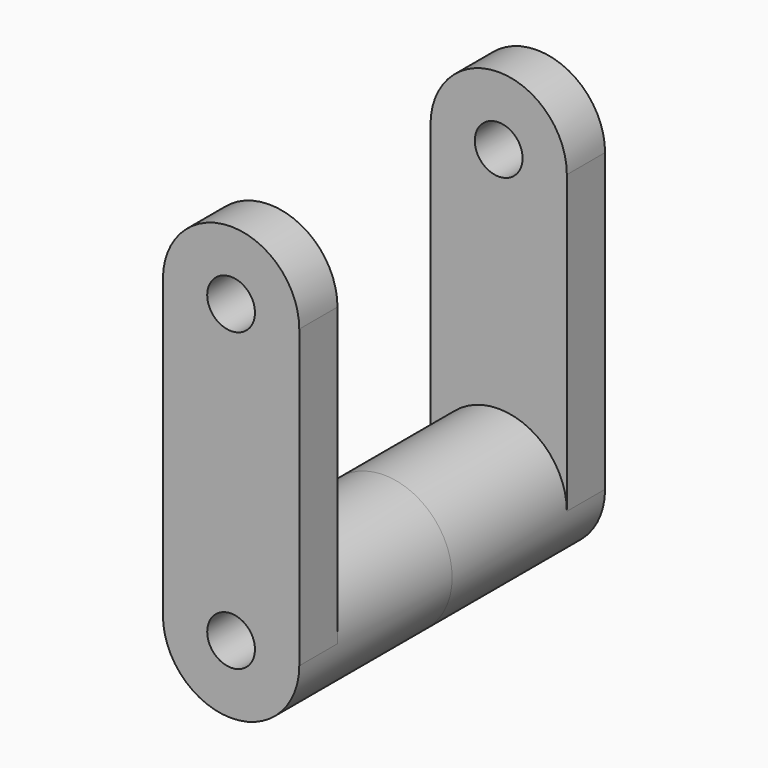
from build123d import *

# Parameters (mm, degrees)
F1_DEPTH = 12.7
F3_DEPTH = 50.8
F7_D     = 12.7


with BuildPart() as f1:
    # F0 (on Front) → F1 (new body)
    with BuildSketch(Plane.XZ):
        with BuildLine():
            ThreePointArc((18.115472, 39.387427), (0, 57.502899), (-18.115472, 39.387427))
            Line((-18.115472, 39.387427), (-18.115472, -39.387427))
            ThreePointArc((-18.115472, -39.387427), (0, -21.271955), (18.115472, -39.387427))
            Line((18.115472, -39.387427), (18.115472, 39.387427))
        make_face()
    extrude(amount=-F1_DEPTH)

    # F2 (on face) → F3 (join)
    with BuildSketch(Plane.XZ):
        with BuildLine():
            ThreePointArc((-18.115472, -39.387427), (0, -57.502899), (18.115472, -39.387427))
            ThreePointArc((18.115472, -39.387427), (0, -21.271955), (-18.115472, -39.387427))
        make_face()
    extrude(amount=-F3_DEPTH)

    # F5: F1 across plane


with BuildPart() as f1_1:
    add(f1.part)
    add(f1.part.mirror(Plane.XZ.offset(-50.8)))

    # F7 (through all)
    with Locations(Plane.XZ):
        with Locations((0, -39.387427), (0, 39.387427)):
            Hole(F7_D / 2)


solid = f1_1.part
